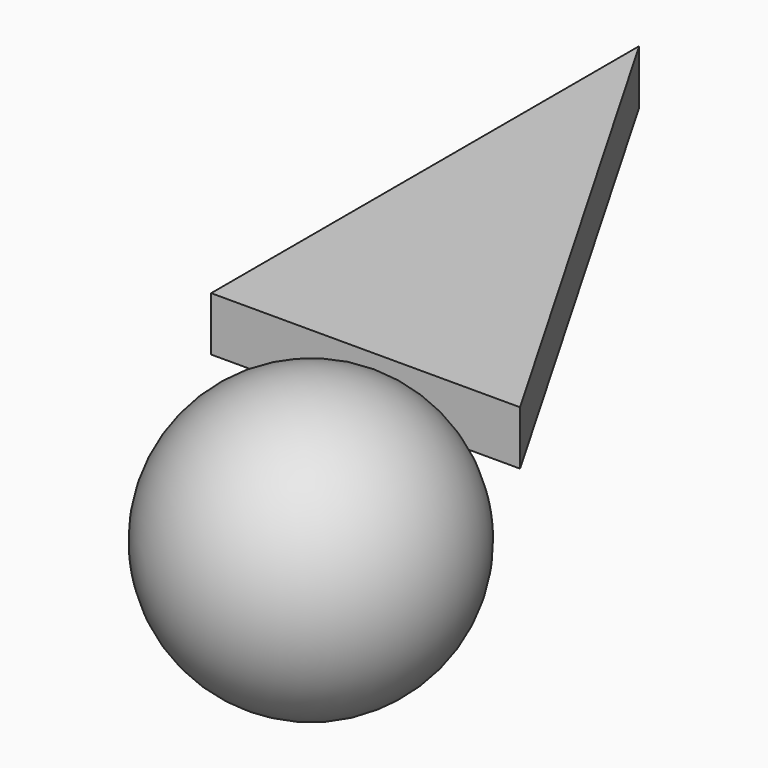
from build123d import *

# Parameters (mm, degrees)
F1_DEPTH = 7


with BuildPart() as f1:
    # F0 (on Top) → F1 (new body)
    with BuildSketch(Plane.XY):
        Polygon((-40, 69.282), (-40, 0), (0, 0), align=None)
    extrude(amount=F1_DEPTH)


with BuildPart() as f3:
    # F2 (on Top) → F3 (revolve)
    with BuildSketch(Plane.XY):
        with BuildLine():
            ThreePointArc((3.3882777593, -10.0499417132), (-22.1301286982, -15.3320738659), (-16.8479965455, -40.8504803235))
            Line((-16.8479965455, -40.8504803235), (3.3882777593, -10.0499417132))
        make_face()
    revolve(axis=Axis((-6.7298593931, -25.4502110183, 0), (0.5491005718, 0.8357562815, 0)))


solid = Compound([f1.part, f3.part])
